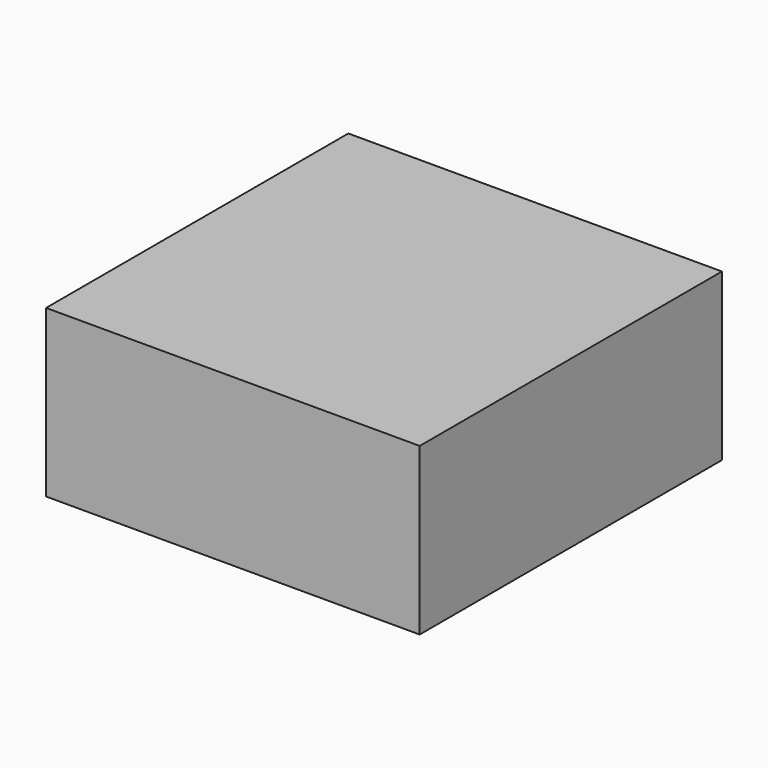
from build123d import *

# Parameters (mm, degrees)
F0_R     = 7.5
F1_DEPTH = 16
F2_W     = 90
F2_H     = 40
F3_DEPTH = 91


with BuildPart() as f1:
    # F0 (on Front) → F1 (new body)
    with BuildSketch(Plane.XZ):
        with Locations((-13.5, 0)):
            Circle(F0_R)
        with Locations((13.5, 0)):
            Circle(F0_R)
    extrude(amount=F1_DEPTH)


with BuildPart() as f3:
    # F2 (on face) → F3 (new body)
    with BuildSketch(Plane.XZ.offset(16)):
        Rectangle(F2_W, F2_H)
    extrude(amount=F3_DEPTH)


solid = Compound([f1.part, f3.part])
